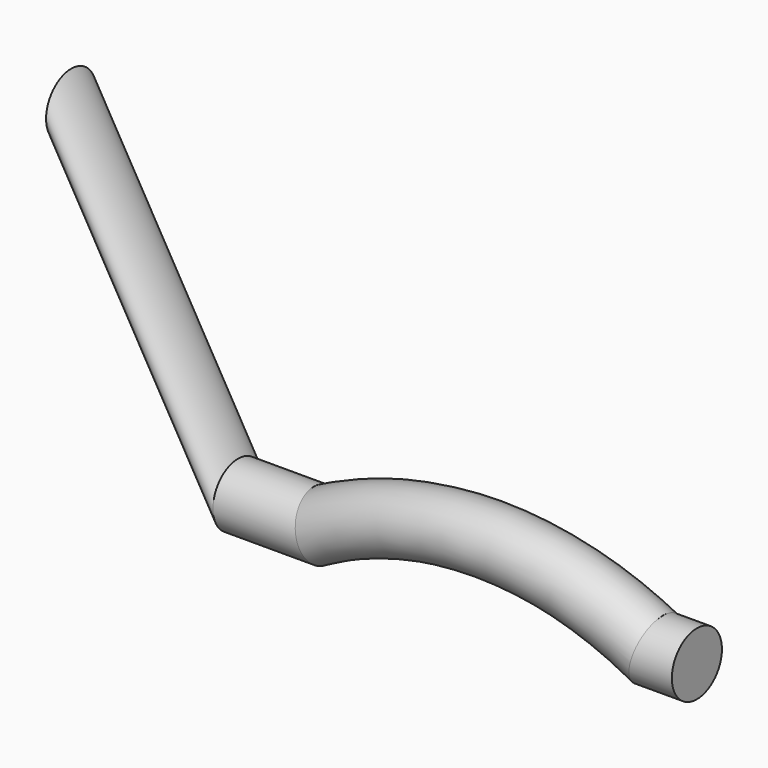
from build123d import *

# Parameters (mm, degrees)
F0_R      = 4.7625
F2_FACE_R = 4.7625


with BuildPart() as f2:
    # F2: sweep along a path in F1
    with BuildLine(Plane.XZ) as f2_path:
        Line((0, 0), (12.7, 0))
        ThreePointArc((12.7, 0), (38.1, 6.3934624181), (63.5, 0))
        Line((63.5, 0), (69.85, 0))
    # F0 (on Right) → F2 (sweep)
    with BuildSketch(Plane.YZ):
        Circle(F0_R)
    sweep(path=f2_path.line, transition=Transition.RIGHT)

    # F4: sweep along a path in F3
    with BuildLine(Plane.XZ) as f4_path:
        Line((-6.35, 0), (-31.75, 43.9940905122))
    # F2_face (on face) → F4 (sweep)
    with BuildSketch(Plane(origin=(0, 0, 0), x_dir=(0, -1, 0), z_dir=(-1, 0, 0))):
        Circle(F2_FACE_R)
    sweep(path=f4_path.line)


solid = f2.part
